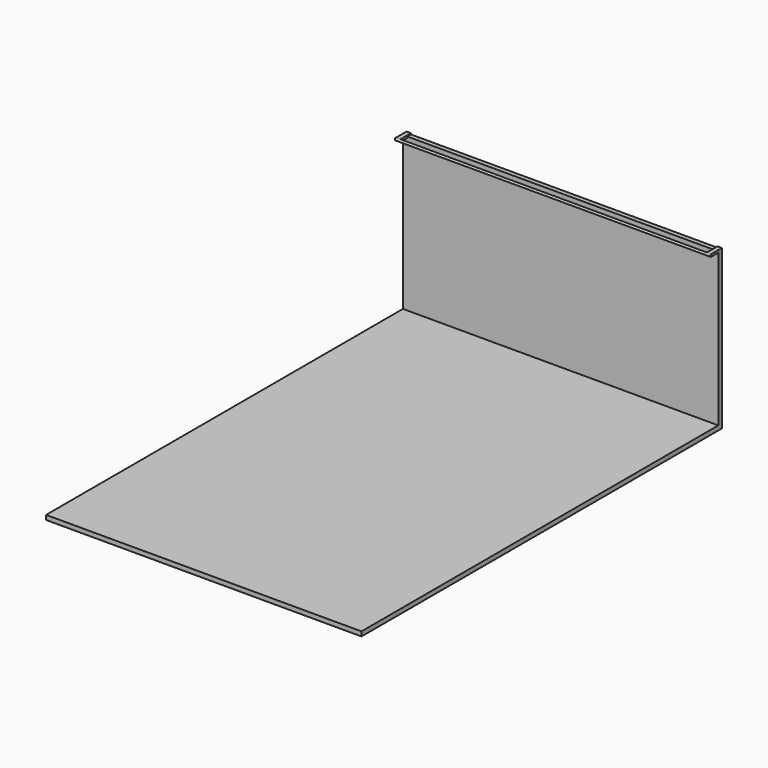
from build123d import *

# Parameters (mm, degrees)
F0_W      = 1778
F0_H      = 2540
F1_DEPTH  = 25.4
F2_W      = 1778
F2_H      = 863.6
F3_DEPTH  = 25.4
F4_R      = 6.35
F5_DEPTH  = 1778
F6_W      = 76.2
F6_H      = 12.7
F7_DEPTH  = 25.4
F9_W      = 76.2
F9_H      = 12.7
F10_DEPTH = 25.4


with BuildPart() as f1:
    # F0 (on Top) → F1 (new body)
    with BuildSketch(Plane.XY):
        with Locations((889, -1270)):
            Rectangle(F0_W, F0_H)
    extrude(amount=-F1_DEPTH)

    # F2 (on Front) → F3 (join)
    with BuildSketch(Plane.XZ):
        with Locations((889, 431.8)):
            Rectangle(F2_W, F2_H)
    extrude(amount=F3_DEPTH)



with BuildPart() as f5:
    # F4 (on Right) → F5 (new body, through all)
    with BuildSketch(Plane.YZ):
        with Locations((-76.2, 863.6)):
            Circle(F4_R)
    extrude(amount=F5_DEPTH)


with BuildPart() as f1_1:
    add(f1.part)

    add(f5.part)  # F7 merges F5
    # F6 (on Right) → F7 (join)
    with BuildSketch(Plane.YZ):
        with Locations((-38.1, 863.6)):
            Rectangle(F6_W, F6_H)
    extrude(amount=F7_DEPTH)

    # F9 (on offset) → F10 (join)
    with BuildSketch(Plane.YZ.offset(1778)):
        with Locations((-38.1, 863.6)):
            Rectangle(F9_W, F9_H)
    extrude(amount=-F10_DEPTH)


solid = f1_1.part
